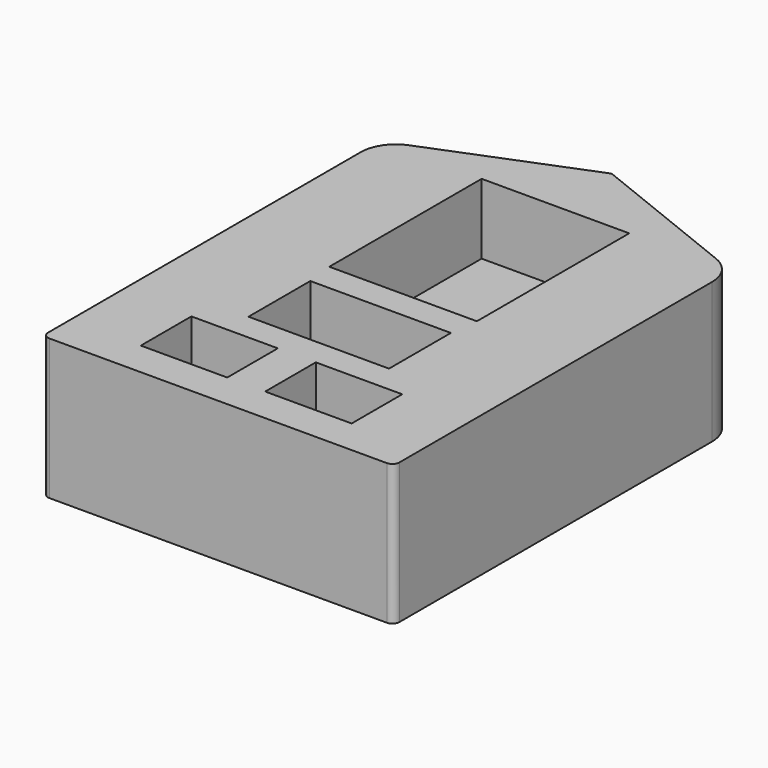
from build123d import *

# Parameters (mm, degrees)
F0_W     = 31.242
F0_H     = 22.86
F0_W_2   = 26.67
F0_H_2   = 68.834
F1_DEPTH = 50.8
F2_R     = 12.7
F3_R     = 12.7
F4_R     = 1.27
F5_R     = 2.54
F6_R     = 2.54
F7_DEPTH = 25.4
F8_DEPTH = 15.24
F9_DEPTH = 22.86


with BuildPart() as f1:
    # F0 (on Top) → F1 (new body)
    with BuildSketch(Plane.XY):
        Polygon((-191.1348653173, 27.6544209014), (-191.1348653173, -124.7455790986), (-64.1348653173, -124.7449096382), (-64.1348653173, 27.6544209014), (-127.6348653138, 53.0544209014), align=None)
        with Locations((-150.1138653173, -100.6154452065)):
            Rectangle(F0_W, F0_H, mode=Mode.SUBTRACT)
        with Locations((-105.1558653173, -100.6154452065)):
            Rectangle(F0_W, F0_H, mode=Mode.SUBTRACT)
        Polygon((-153.0348653138, -51.3395790986), (-127.6348653138, -51.3395790986), (-102.2348653138, -51.3395790986), (-102.2348653138, -79.2795790986), (-153.0348653138, -79.2795790986), align=None, mode=Mode.SUBTRACT)
        Polygon((-154.3048653138, 27.6544209014), (-127.6348653138, 27.6544209014), (-100.9648653138, 27.6544209014), (-100.9648653138, -41.1795790986), (-127.6348653138, -41.1795790986), (-154.3048653138, -41.1795790986), align=None, mode=Mode.SUBTRACT)
        with Locations((-140.9698653138, -6.7625790986)):
            Rectangle(F0_W_2, F0_H_2)
        with Locations((-114.2998653138, -6.7625790986)):
            Rectangle(F0_W_2, F0_H_2)
        with Locations((-150.1138653173, -100.6154452065)):
            Rectangle(F0_W, F0_H)
        with Locations((-105.1558653173, -100.6154452065)):
            Rectangle(F0_W, F0_H)
        Polygon((-102.2348653138, -51.3395790986), (-127.6348653138, -51.3395790986), (-153.0348653138, -51.3395790986), (-153.0348653138, -79.2795790986), (-102.2348653138, -79.2795790986), align=None)
    extrude(amount=-F1_DEPTH)

    # F2
    f2_edges = [f1.edges().sort_by_distance(p)[0] for p in [
        (-64.134865, 27.654421, -25.4),
    ]]
    fillet(f2_edges, radius=F2_R)

    # F3
    f3_edges = [f1.edges().sort_by_distance(p)[0] for p in [
        (-191.134865, 27.654421, -25.4),
    ]]
    fillet(f3_edges, radius=F3_R)

    # F4
    f4_edges = [f1.edges().sort_by_distance(p)[0] for p in [
        (-127.634865, 53.054421, -25.4),
    ]]
    fillet(f4_edges, radius=F4_R)

    # F5
    f5_edges = [f1.edges().sort_by_distance(p)[0] for p in [
        (-191.134865, -124.745579, -25.4),
    ]]
    fillet(f5_edges, radius=F5_R)

    # F6
    f6_edges = [f1.edges().sort_by_distance(p)[0] for p in [
        (-64.134865, -124.74491, -25.4),
    ]]
    fillet(f6_edges, radius=F6_R)

    # F0 (on Top) → F7 (cut)
    with BuildSketch(Plane.XY):
        with Locations((-140.9698653138, -6.7625790986)):
            Rectangle(F0_W_2, F0_H_2)
        with Locations((-114.2998653138, -6.7625790986)):
            Rectangle(F0_W_2, F0_H_2)
    extrude(amount=-F7_DEPTH, mode=Mode.SUBTRACT)

    # F0 (on Top) → F8 (cut)
    with BuildSketch(Plane.XY):
        with Locations((-150.1138653173, -100.6154452065)):
            Rectangle(F0_W, F0_H)
        with Locations((-105.1558653173, -100.6154452065)):
            Rectangle(F0_W, F0_H)
    extrude(amount=-F8_DEPTH, mode=Mode.SUBTRACT)

    # F0 (on Top) → F9 (cut)
    with BuildSketch(Plane.XY):
        Polygon((-102.2348653138, -51.3395790986), (-127.6348653138, -51.3395790986), (-153.0348653138, -51.3395790986), (-153.0348653138, -79.2795790986), (-102.2348653138, -79.2795790986), align=None)
    extrude(amount=-F9_DEPTH, mode=Mode.SUBTRACT)


solid = f1.part
